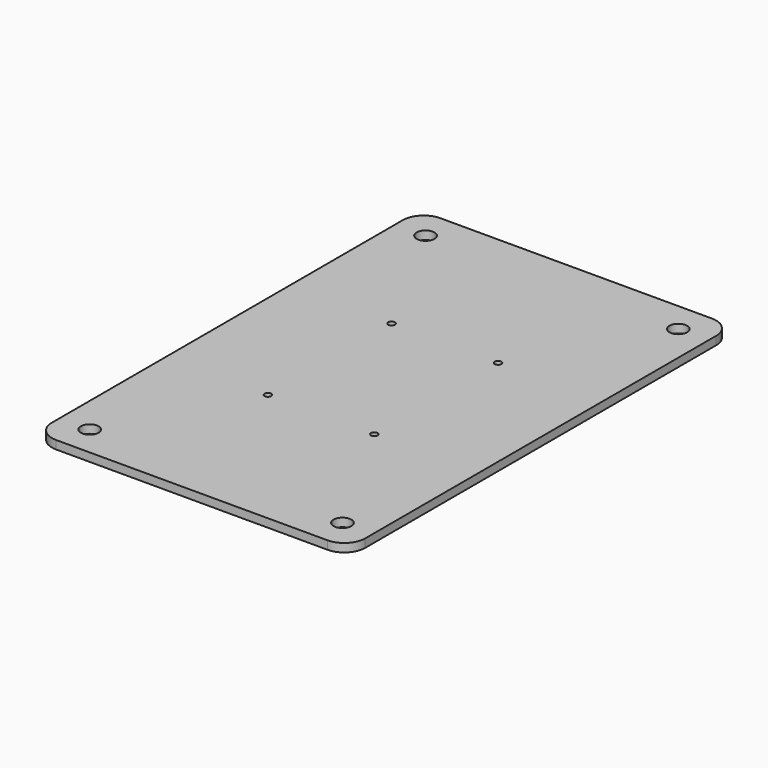
from build123d import *

# Parameters (mm, degrees)
F0_R     = 4.25
F0_R_2   = 1.6
F1_DEPTH = 4


with BuildPart() as f1:
    # F0 (on Top) → F1 (new body)
    with BuildSketch(Plane.XY):
        with BuildLine():
            Line((-65, -115), (65, -115))
            ThreePointArc((65, -115), (72.071068, -112.071068), (75, -105))
            Line((75, -105), (75, 105))
            ThreePointArc((75, 105), (72.071068, 112.071068), (65, 115))
            Line((65, 115), (-65, 115))
            ThreePointArc((-65, 115), (-72.071068, 112.071068), (-75, 105))
            Line((-75, 105), (-75, -105))
            ThreePointArc((-75, -105), (-72.071068, -112.071068), (-65, -115))
        make_face()
        with Locations((-60.5, -100.5)):
            Circle(F0_R, mode=Mode.SUBTRACT)
        with Locations((-26, -37)):
            Circle(F0_R_2, mode=Mode.SUBTRACT)
        with Locations((60.5, -100.5)):
            Circle(F0_R, mode=Mode.SUBTRACT)
        with Locations((25, -37)):
            Circle(F0_R_2, mode=Mode.SUBTRACT)
        with Locations((-26, 37)):
            Circle(F0_R_2, mode=Mode.SUBTRACT)
        with Locations((-60.5, 100.5)):
            Circle(F0_R, mode=Mode.SUBTRACT)
        with Locations((25, 37)):
            Circle(F0_R_2, mode=Mode.SUBTRACT)
        with Locations((60.5, 100.5)):
            Circle(F0_R, mode=Mode.SUBTRACT)
    extrude(amount=F1_DEPTH)


solid = f1.part
